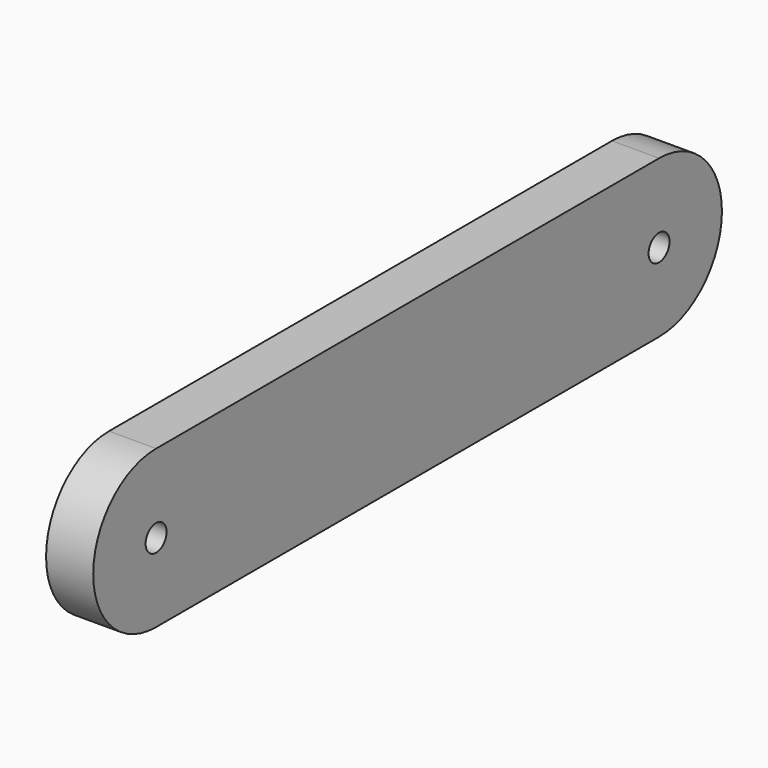
from build123d import *

# Parameters (mm, degrees)
F0_R     = 5
F1_DEPTH = 18


with BuildPart() as f1:
    # F0 (on Right) → F1 (new body)
    with BuildSketch(Plane.YZ):
        with BuildLine():
            Line((240, 30), (0, 30))
            ThreePointArc((0, 30), (-30, 0), (0, -30))
            Line((0, -30), (240, -30))
            ThreePointArc((240, -30), (270, 0), (240, 30))
        make_face()
        Circle(F0_R, mode=Mode.SUBTRACT)
        with Locations((240, 0)):
            Circle(F0_R, mode=Mode.SUBTRACT)
    extrude(amount=F1_DEPTH)


solid = f1.part
